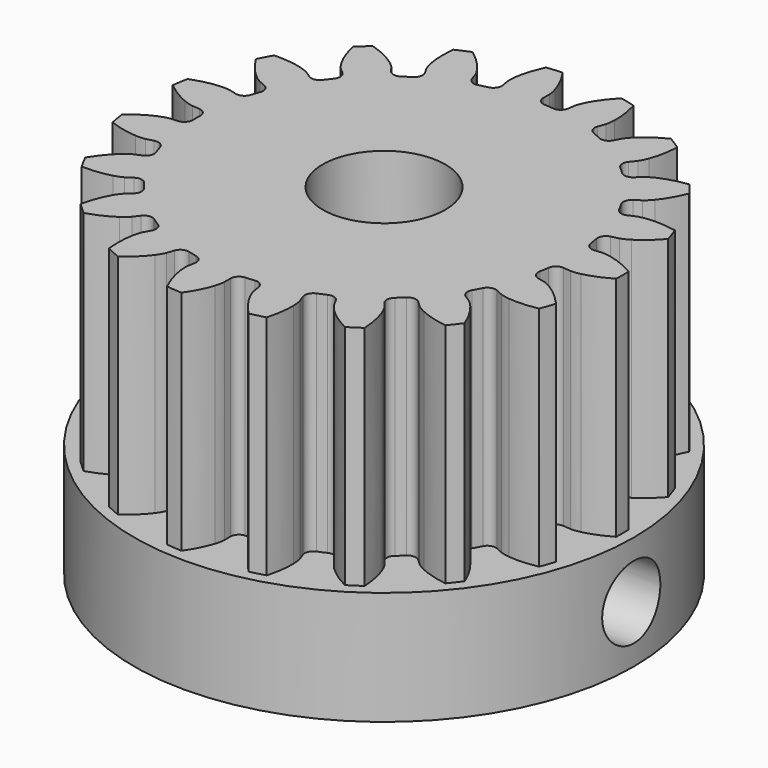
from build123d import *

# Parameters (mm, degrees)
PAD_DEPTH            = 10
SKETCH_R             = 11
PAD001_DEPTH         = 5
SKETCH001_R          = 2.7
POCKET_DEPTH         = 5.001
POCKET_DEPTH_BACK    = 10.001
SKETCH002_R          = 1.6
POCKET001_DEPTH      = 11.001
POCKET001_DEPTH_BACK = 11.001
POCKET002_DEPTH      = 2.2
POCKET003_DEPTH      = 2.2


with BuildPart() as part:
    # InvoluteGear → Pad (new body)
    with BuildSketch(Plane.XY):
        with BuildLine():
            Line((8.575854, -0.83948), (8.902263, -0.870675))
            add(Edge.make_bspline(
                [(8.902263, -0.870675), (8.948723, -0.872301), (9.088539, -0.871419), (9.321927, -0.820597)],
                knots=[0, 0, 0, 0, 1, 1, 1, 1], degree=3))
            add(Edge.make_bspline(
                [(9.321927, -0.820597), (9.601005, -0.758847), (10.002268, -0.626259), (10.495483, -0.343795)],
                knots=[0, 0, 0, 0, 1, 1, 1, 1], degree=3))
            ThreePointArc((10.495483, -0.343795), (10.501113, 0), (10.495483, 0.343795))
            add(Edge.make_bspline(
                [(10.495483, 0.343795), (10.002268, 0.626259), (9.601005, 0.758847), (9.321927, 0.820597)],
                knots=[0, 0, 0, 0, 1, 1, 1, 1], degree=3))
            add(Edge.make_bspline(
                [(9.321927, 0.820597), (9.088539, 0.871419), (8.948723, 0.872301), (8.902263, 0.870675)],
                knots=[0, 0, 0, 0, 1, 1, 1, 1], degree=3))
            Line((8.902263, 0.870675), (8.575854, 0.83948))
            ThreePointArc((8.575854, 0.83948), (8.30774, 0.917746), (8.168093, 1.159634))
            ThreePointArc((8.168093, 1.159634), (8.137481, 1.357905), (8.102056, 1.555373))
            ThreePointArc((8.102056, 1.555373), (8.155595, 1.829499), (8.383769, 1.990581))
            Line((8.383769, 1.990581), (8.702622, 2.067061))
            add(Edge.make_bspline(
                [(8.702622, 2.067061), (8.747092, 2.080609), (8.879046, 2.12684), (9.083287, 2.25069)],
                knots=[0, 0, 0, 0, 1, 1, 1, 1], degree=3))
            add(Edge.make_bspline(
                [(9.083287, 2.25069), (9.327193, 2.39971), (9.663664, 2.655405), (10.038439, 3.08271)],
                knots=[0, 0, 0, 0, 1, 1, 1, 1], degree=3))
            ThreePointArc((10.038439, 3.08271), (9.932134, 3.409706), (9.815179, 3.733045))
            add(Edge.make_bspline(
                [(9.815179, 3.733045), (9.256972, 3.840058), (8.834398, 3.835172), (8.550392, 3.80296)],
                knots=[0, 0, 0, 0, 1, 1, 1, 1], degree=3))
            add(Edge.make_bspline(
                [(8.550392, 3.80296), (8.313147, 3.775247), (8.180621, 3.730683), (8.137206, 3.71406)],
                knots=[0, 0, 0, 0, 1, 1, 1, 1], degree=3))
            Line((8.137206, 3.71406), (7.838612, 3.57857))
            ThreePointArc((7.838612, 3.57857), (7.559612, 3.565539), (7.348991, 3.748978))
            ThreePointArc((7.348991, 3.748978), (7.255658, 3.926566), (7.158035, 4.101832))
            ThreePointArc((7.158035, 4.101832), (7.119665, 4.378489), (7.283173, 4.604931))
            Line((7.283173, 4.604931), (7.559916, 4.780798))
            add(Edge.make_bspline(
                [(7.559916, 4.780798), (7.597578, 4.808052), (7.707371, 4.894624), (7.860332, 5.07808)],
                knots=[0, 0, 0, 0, 1, 1, 1, 1], degree=3))
            add(Edge.make_bspline(
                [(7.860332, 5.07808), (8.042635, 5.298222), (8.277851, 5.649314), (8.493574, 6.175156)],
                knots=[0, 0, 0, 0, 1, 1, 1, 1], degree=3))
            ThreePointArc((8.493574, 6.175156), (8.286854, 6.449917), (8.071248, 6.717762))
            add(Edge.make_bspline(
                [(8.071248, 6.717762), (7.508539, 6.637727), (7.110448, 6.495896), (6.852289, 6.373213)],
                knots=[0, 0, 0, 0, 1, 1, 1, 1], degree=3))
            add(Edge.make_bspline(
                [(6.852289, 6.373213), (6.636898, 6.269968), (6.526022, 6.184788), (6.490357, 6.154968)],
                knots=[0, 0, 0, 0, 1, 1, 1, 1], degree=3))
            Line((6.490357, 6.154968), (6.251935, 5.929866))
            ThreePointArc((6.251935, 5.929866), (5.992283, 5.82695), (5.733511, 5.932061))
            ThreePointArc((5.733511, 5.932061), (5.587573, 6.069722), (5.438331, 6.203794))
            ThreePointArc((5.438331, 6.203794), (5.312209, 6.453002), (5.393332, 6.720266))
            Line((5.393332, 6.720266), (5.597976, 6.976462))
            add(Edge.make_bspline(
                [(5.597976, 6.976462), (5.624749, 7.014468), (5.700483, 7.131999), (5.785588, 7.355181)],
                knots=[0, 0, 0, 0, 1, 1, 1, 1], degree=3))
            add(Edge.make_bspline(
                [(5.785588, 7.355181), (5.886533, 7.622589), (5.995005, 8.031033), (6.028299, 8.598429)],
                knots=[0, 0, 0, 0, 1, 1, 1, 1], degree=3))
            ThreePointArc((6.028299, 8.598429), (5.743564, 8.79118), (5.452671, 8.974505))
            add(Edge.make_bspline(
                [(5.452671, 8.974505), (4.946439, 8.716095), (4.61597, 8.452689), (4.411634, 8.252829)],
                knots=[0, 0, 0, 0, 1, 1, 1, 1], degree=3))
            add(Edge.make_bspline(
                [(4.411634, 8.252829), (4.241437, 8.085241), (4.164227, 7.968674), (4.140176, 7.92889)],
                knots=[0, 0, 0, 0, 1, 1, 1, 1], degree=3))
            Line((4.140176, 7.92889), (3.987763, 7.638569))
            ThreePointArc((3.987763, 7.638569), (3.775597, 7.456921), (3.496717, 7.472314))
            ThreePointArc((3.496717, 7.472314), (3.313987, 7.55513), (3.129298, 7.633478))
            ThreePointArc((3.129298, 7.633478), (2.929093, 7.828232), (2.91904, 8.107355))
            Line((2.91904, 8.107355), (3.029409, 8.416118))
            add(Edge.make_bspline(
                [(3.029409, 8.416118), (3.04239, 8.460758), (3.075858, 8.596511), (3.083885, 8.835234)],
                knots=[0, 0, 0, 0, 1, 1, 1, 1], degree=3))
            add(Edge.make_bspline(
                [(3.083885, 8.835234), (3.092534, 9.12093), (3.062507, 9.542464), (2.909764, 10.089927)],
                knots=[0, 0, 0, 0, 1, 1, 1, 1], degree=3))
            ThreePointArc((2.909764, 10.089927), (2.577871, 10.179782), (2.243214, 10.258721))
            add(Edge.make_bspline(
                [(2.243214, 10.258721), (1.848316, 9.849939), (1.62128, 9.493502), (1.49291, 9.238124)],
                knots=[0, 0, 0, 0, 1, 1, 1, 1], degree=3))
            add(Edge.make_bspline(
                [(1.49291, 9.238124), (1.38635, 9.024353), (1.351173, 8.889032), (1.341344, 8.843594)],
                knots=[0, 0, 0, 0, 1, 1, 1, 1], degree=3))
            Line((1.341344, 8.843594), (1.291456, 8.519515))
            ThreePointArc((1.291456, 8.519515), (1.149766, 8.278818), (0.880998, 8.202825))
            ThreePointArc((0.880998, 8.202825), (0.68128, 8.221822), (0.481158, 8.235957))
            ThreePointArc((0.481158, 8.235957), (0.228564, 8.355151), (0.128424, 8.615887))
            Line((0.128424, 8.615887), (0.132558, 8.943757))
            add(Edge.make_bspline(
                [(0.132558, 8.943757), (0.130342, 8.990193), (0.117917, 9.129458), (0.047996, 9.357853)],
                knots=[0, 0, 0, 0, 1, 1, 1, 1], degree=3))
            add(Edge.make_bspline(
                [(0.047996, 9.357853), (-0.036589, 9.630877), (-0.201861, 10.019822), (-0.524089, 10.488026)],
                knots=[0, 0, 0, 0, 1, 1, 1, 1], degree=3))
            ThreePointArc((-0.524089, 10.488026), (-0.867175, 10.465246), (-1.209331, 10.431245))
            add(Edge.make_bspline(
                [(-1.209331, 10.431245), (-1.450101, 9.91639), (-1.5491, 9.505547), (-1.587593, 9.222324)],
                knots=[0, 0, 0, 0, 1, 1, 1, 1], degree=3))
            add(Edge.make_bspline(
                [(-1.587593, 9.222324), (-1.618968, 8.985536), (-1.608301, 8.846125), (-1.602844, 8.799957)],
                knots=[0, 0, 0, 0, 1, 1, 1, 1], degree=3))
            Line((-1.602844, 8.799957), (-1.544801, 8.47724))
            ThreePointArc((-1.544801, 8.47724), (-1.600659, 8.203578), (-1.830189, 8.044433))
            ThreePointArc((-1.830189, 8.044433), (-2.025255, 7.997552), (-2.219123, 7.945942))
            ThreePointArc((-2.219123, 7.945942), (-2.496734, 7.976661), (-2.676108, 8.190754))
            Line((-2.676108, 8.190754), (-2.778657, 8.502201))
            add(Edge.make_bspline(
                [(-2.778657, 8.502201), (-2.795831, 8.545401), (-2.852802, 8.673087), (-2.993094, 8.866403)],
                knots=[0, 0, 0, 0, 1, 1, 1, 1], degree=3))
            add(Edge.make_bspline(
                [(-2.993094, 8.866403), (-3.161747, 9.097169), (-3.444354, 9.411376), (-3.901149, 9.749584)],
                knots=[0, 0, 0, 0, 1, 1, 1, 1], degree=3))
            ThreePointArc((-3.901149, 9.749584), (-4.218249, 9.616639), (-4.530826, 9.473383))
            add(Edge.make_bspline(
                [(-4.530826, 9.473383), (-4.591377, 8.908245), (-4.551612, 8.487518), (-4.496057, 8.207142)],
                knots=[0, 0, 0, 0, 1, 1, 1, 1], degree=3))
            add(Edge.make_bspline(
                [(-4.496057, 8.207142), (-4.448847, 7.972996), (-4.393491, 7.844603), (-4.373339, 7.802709)],
                knots=[0, 0, 0, 0, 1, 1, 1, 1], degree=3))
            Line((-4.373339, 7.802709), (-4.213654, 7.516323))
            ThreePointArc((-4.213654, 7.516323), (-4.177628, 7.239352), (-4.343048, 7.014302))
            ThreePointArc((-4.343048, 7.014302), (-4.512322, 6.906623), (-4.678928, 6.794861))
            ThreePointArc((-4.678928, 6.794861), (-4.951471, 6.733775), (-5.190643, 6.878025))
            Line((-5.190643, 6.878025), (-5.388762, 7.1393))
            add(Edge.make_bspline(
                [(-5.388762, 7.1393), (-5.419033, 7.174583), (-5.514376, 7.276852), (-5.709836, 7.41414)],
                knots=[0, 0, 0, 0, 1, 1, 1, 1], degree=3))
            add(Edge.make_bspline(
                [(-5.709836, 7.41414), (-5.944281, 7.577642), (-6.313598, 7.783062), (-6.855459, 7.954624)],
                knots=[0, 0, 0, 0, 1, 1, 1, 1], degree=3))
            ThreePointArc((-6.855459, 7.954624), (-7.11221, 7.72592), (-7.361336, 7.488932))
            add(Edge.make_bspline(
                [(-7.361336, 7.488932), (-7.235106, 6.934754), (-7.060886, 6.549735), (-6.917303, 6.302589)],
                knots=[0, 0, 0, 0, 1, 1, 1, 1], degree=3))
            add(Edge.make_bspline(
                [(-6.917303, 6.302589), (-6.796624, 6.096459), (-6.702578, 5.992996), (-6.669915, 5.959916)],
                knots=[0, 0, 0, 0, 1, 1, 1, 1], degree=3))
            Line((-6.669915, 5.959916), (-6.425893, 5.740897))
            ThreePointArc((-6.425893, 5.740897), (-6.301887, 5.49063), (-6.38527, 5.224063))
            ThreePointArc((-6.38527, 5.224063), (-6.510409, 5.067255), (-6.631699, 4.907451))
            ThreePointArc((-6.631699, 4.907451), (-6.86964, 4.761181), (-7.14269, 4.819956))
            Line((-7.14269, 4.819956), (-7.414911, 5.002745))
            add(Edge.make_bspline(
                [(-7.414911, 5.002745), (-7.454998, 5.026287), (-7.578382, 5.092057), (-7.807829, 5.158441)],
                knots=[0, 0, 0, 0, 1, 1, 1, 1], degree=3))
            add(Edge.make_bspline(
                [(-7.807829, 5.158441), (-8.08266, 5.23696), (-8.498666, 5.311332), (-9.066873, 5.297657)],
                knots=[0, 0, 0, 0, 1, 1, 1, 1], degree=3))
            ThreePointArc((-9.066873, 5.297657), (-9.235453, 4.997977), (-9.39413, 4.692939))
            add(Edge.make_bspline(
                [(-9.39413, 4.692939), (-9.094799, 4.209775), (-8.805003, 3.902187), (-8.588952, 3.715053)],
                knots=[0, 0, 0, 0, 1, 1, 1, 1], degree=3))
            add(Edge.make_bspline(
                [(-8.588952, 3.715053), (-8.407881, 3.559276), (-8.285337, 3.491956), (-8.243702, 3.471273)],
                knots=[0, 0, 0, 0, 1, 1, 1, 1], degree=3))
            Line((-8.243702, 3.471273), (-7.941787, 3.343355))
            ThreePointArc((-7.941787, 3.343355), (-7.743238, 3.146913), (-7.735549, 2.867715))
            ThreePointArc((-7.735549, 2.867715), (-7.802992, 2.678771), (-7.865822, 2.488242))
            ThreePointArc((-7.865822, 2.488242), (-8.043377, 2.272638), (-8.320717, 2.239569))
            Line((-8.320717, 2.239569), (-8.637539, 2.324065))
            add(Edge.make_bspline(
                [(-8.637539, 2.324065), (-8.683098, 2.333315), (-8.821152, 2.355459), (-9.059722, 2.343744)],
                knots=[0, 0, 0, 0, 1, 1, 1, 1], degree=3))
            add(Edge.make_bspline(
                [(-9.059722, 2.343744), (-9.345157, 2.328771), (-9.762772, 2.264037), (-10.295752, 2.066606)],
                knots=[0, 0, 0, 0, 1, 1, 1, 1], degree=3))
            ThreePointArc((-10.295752, 2.066606), (-10.357892, 1.728426), (-10.408925, 1.388393))
            add(Edge.make_bspline(
                [(-10.408925, 1.388393), (-9.968929, 1.028602), (-9.594962, 0.831776), (-9.329854, 0.724933)],
                knots=[0, 0, 0, 0, 1, 1, 1, 1], degree=3))
            add(Edge.make_bspline(
                [(-9.329854, 0.724933), (-9.108014, 0.63639), (-8.97025, 0.612508), (-8.924156, 0.606464)],
                knots=[0, 0, 0, 0, 1, 1, 1, 1], degree=3))
            Line((-8.924156, 0.606464), (-8.597064, 0.583509))
            ThreePointArc((-8.597064, 0.583509), (-8.345489, 0.46218), (-8.247561, 0.200605))
            ThreePointArc((-8.247561, 0.200605), (-8.25, 0), (-8.247561, -0.200605))
            ThreePointArc((-8.247561, -0.200605), (-8.345489, -0.46218), (-8.597064, -0.583509))
            Line((-8.597064, -0.583509), (-8.924156, -0.606464))
            add(Edge.make_bspline(
                [(-8.924156, -0.606464), (-8.97025, -0.612508), (-9.108014, -0.63639), (-9.329854, -0.724933)],
                knots=[0, 0, 0, 0, 1, 1, 1, 1], degree=3))
            add(Edge.make_bspline(
                [(-9.329854, -0.724933), (-9.594962, -0.831776), (-9.968929, -1.028602), (-10.408925, -1.388393)],
                knots=[0, 0, 0, 0, 1, 1, 1, 1], degree=3))
            ThreePointArc((-10.408925, -1.388393), (-10.357892, -1.728426), (-10.295752, -2.066606))
            add(Edge.make_bspline(
                [(-10.295752, -2.066606), (-9.762772, -2.264037), (-9.345157, -2.328771), (-9.059722, -2.343744)],
                knots=[0, 0, 0, 0, 1, 1, 1, 1], degree=3))
            add(Edge.make_bspline(
                [(-9.059722, -2.343744), (-8.821152, -2.355459), (-8.683098, -2.333315), (-8.637539, -2.324065)],
                knots=[0, 0, 0, 0, 1, 1, 1, 1], degree=3))
            Line((-8.637539, -2.324065), (-8.320717, -2.239569))
            ThreePointArc((-8.320717, -2.239569), (-8.043377, -2.272638), (-7.865822, -2.488242))
            ThreePointArc((-7.865822, -2.488242), (-7.802992, -2.678771), (-7.735549, -2.867715))
            ThreePointArc((-7.735549, -2.867715), (-7.743238, -3.146913), (-7.941787, -3.343355))
            Line((-7.941787, -3.343355), (-8.243702, -3.471273))
            add(Edge.make_bspline(
                [(-8.243702, -3.471273), (-8.285337, -3.491956), (-8.407881, -3.559276), (-8.588952, -3.715053)],
                knots=[0, 0, 0, 0, 1, 1, 1, 1], degree=3))
            add(Edge.make_bspline(
                [(-8.588952, -3.715053), (-8.805003, -3.902187), (-9.094799, -4.209775), (-9.39413, -4.692939)],
                knots=[0, 0, 0, 0, 1, 1, 1, 1], degree=3))
            ThreePointArc((-9.39413, -4.692939), (-9.235453, -4.997977), (-9.066873, -5.297657))
            add(Edge.make_bspline(
                [(-9.066873, -5.297657), (-8.498666, -5.311332), (-8.08266, -5.23696), (-7.807829, -5.158441)],
                knots=[0, 0, 0, 0, 1, 1, 1, 1], degree=3))
            add(Edge.make_bspline(
                [(-7.807829, -5.158441), (-7.578382, -5.092057), (-7.454998, -5.026287), (-7.414911, -5.002745)],
                knots=[0, 0, 0, 0, 1, 1, 1, 1], degree=3))
            Line((-7.414911, -5.002745), (-7.14269, -4.819956))
            ThreePointArc((-7.14269, -4.819956), (-6.86964, -4.761181), (-6.631699, -4.907451))
            ThreePointArc((-6.631699, -4.907451), (-6.510409, -5.067255), (-6.38527, -5.224063))
            ThreePointArc((-6.38527, -5.224063), (-6.301887, -5.49063), (-6.425893, -5.740897))
            Line((-6.425893, -5.740897), (-6.669915, -5.959916))
            add(Edge.make_bspline(
                [(-6.669915, -5.959916), (-6.702578, -5.992996), (-6.796624, -6.096459), (-6.917303, -6.302589)],
                knots=[0, 0, 0, 0, 1, 1, 1, 1], degree=3))
            add(Edge.make_bspline(
                [(-6.917303, -6.302589), (-7.060886, -6.549735), (-7.235106, -6.934754), (-7.361336, -7.488932)],
                knots=[0, 0, 0, 0, 1, 1, 1, 1], degree=3))
            ThreePointArc((-7.361336, -7.488932), (-7.11221, -7.72592), (-6.855459, -7.954624))
            add(Edge.make_bspline(
                [(-6.855459, -7.954624), (-6.313598, -7.783062), (-5.944281, -7.577642), (-5.709836, -7.41414)],
                knots=[0, 0, 0, 0, 1, 1, 1, 1], degree=3))
            add(Edge.make_bspline(
                [(-5.709836, -7.41414), (-5.514376, -7.276852), (-5.419033, -7.174583), (-5.388762, -7.1393)],
                knots=[0, 0, 0, 0, 1, 1, 1, 1], degree=3))
            Line((-5.388762, -7.1393), (-5.190643, -6.878025))
            ThreePointArc((-5.190643, -6.878025), (-4.951471, -6.733775), (-4.678928, -6.794861))
            ThreePointArc((-4.678928, -6.794861), (-4.512322, -6.906623), (-4.343048, -7.014302))
            ThreePointArc((-4.343048, -7.014302), (-4.177628, -7.239352), (-4.213654, -7.516323))
            Line((-4.213654, -7.516323), (-4.373339, -7.802709))
            add(Edge.make_bspline(
                [(-4.373339, -7.802709), (-4.393491, -7.844603), (-4.448847, -7.972996), (-4.496057, -8.207142)],
                knots=[0, 0, 0, 0, 1, 1, 1, 1], degree=3))
            add(Edge.make_bspline(
                [(-4.496057, -8.207142), (-4.551612, -8.487518), (-4.591377, -8.908245), (-4.530826, -9.473383)],
                knots=[0, 0, 0, 0, 1, 1, 1, 1], degree=3))
            ThreePointArc((-4.530826, -9.473383), (-4.218249, -9.616639), (-3.901149, -9.749584))
            add(Edge.make_bspline(
                [(-3.901149, -9.749584), (-3.444354, -9.411376), (-3.161747, -9.097169), (-2.993094, -8.866403)],
                knots=[0, 0, 0, 0, 1, 1, 1, 1], degree=3))
            add(Edge.make_bspline(
                [(-2.993094, -8.866403), (-2.852802, -8.673087), (-2.795831, -8.545401), (-2.778657, -8.502201)],
                knots=[0, 0, 0, 0, 1, 1, 1, 1], degree=3))
            Line((-2.778657, -8.502201), (-2.676108, -8.190754))
            ThreePointArc((-2.676108, -8.190754), (-2.496734, -7.976661), (-2.219123, -7.945942))
            ThreePointArc((-2.219123, -7.945942), (-2.025255, -7.997552), (-1.830189, -8.044433))
            ThreePointArc((-1.830189, -8.044433), (-1.600659, -8.203578), (-1.544801, -8.47724))
            Line((-1.544801, -8.47724), (-1.602844, -8.799957))
            add(Edge.make_bspline(
                [(-1.602844, -8.799957), (-1.608301, -8.846125), (-1.618968, -8.985536), (-1.587593, -9.222324)],
                knots=[0, 0, 0, 0, 1, 1, 1, 1], degree=3))
            add(Edge.make_bspline(
                [(-1.587593, -9.222324), (-1.5491, -9.505547), (-1.450101, -9.91639), (-1.209331, -10.431245)],
                knots=[0, 0, 0, 0, 1, 1, 1, 1], degree=3))
            ThreePointArc((-1.209331, -10.431245), (-0.867175, -10.465246), (-0.524089, -10.488026))
            add(Edge.make_bspline(
                [(-0.524089, -10.488026), (-0.201861, -10.019822), (-0.036589, -9.630877), (0.047996, -9.357853)],
                knots=[0, 0, 0, 0, 1, 1, 1, 1], degree=3))
            add(Edge.make_bspline(
                [(0.047996, -9.357853), (0.117917, -9.129458), (0.130342, -8.990193), (0.132558, -8.943757)],
                knots=[0, 0, 0, 0, 1, 1, 1, 1], degree=3))
            Line((0.132558, -8.943757), (0.128424, -8.615887))
            ThreePointArc((0.128424, -8.615887), (0.228564, -8.355151), (0.481158, -8.235957))
            ThreePointArc((0.481158, -8.235957), (0.68128, -8.221822), (0.880998, -8.202825))
            ThreePointArc((0.880998, -8.202825), (1.149766, -8.278818), (1.291456, -8.519515))
            Line((1.291456, -8.519515), (1.341344, -8.843594))
            add(Edge.make_bspline(
                [(1.341344, -8.843594), (1.351173, -8.889032), (1.38635, -9.024353), (1.49291, -9.238124)],
                knots=[0, 0, 0, 0, 1, 1, 1, 1], degree=3))
            add(Edge.make_bspline(
                [(1.49291, -9.238124), (1.62128, -9.493502), (1.848316, -9.849939), (2.243214, -10.258721)],
                knots=[0, 0, 0, 0, 1, 1, 1, 1], degree=3))
            ThreePointArc((2.243214, -10.258721), (2.577871, -10.179782), (2.909764, -10.089927))
            add(Edge.make_bspline(
                [(2.909764, -10.089927), (3.062507, -9.542464), (3.092534, -9.12093), (3.083885, -8.835234)],
                knots=[0, 0, 0, 0, 1, 1, 1, 1], degree=3))
            add(Edge.make_bspline(
                [(3.083885, -8.835234), (3.075858, -8.596511), (3.04239, -8.460758), (3.029409, -8.416118)],
                knots=[0, 0, 0, 0, 1, 1, 1, 1], degree=3))
            Line((3.029409, -8.416118), (2.91904, -8.107355))
            ThreePointArc((2.91904, -8.107355), (2.929093, -7.828232), (3.129298, -7.633478))
            ThreePointArc((3.129298, -7.633478), (3.313987, -7.55513), (3.496717, -7.472314))
            ThreePointArc((3.496717, -7.472314), (3.775597, -7.456921), (3.987763, -7.638569))
            Line((3.987763, -7.638569), (4.140176, -7.92889))
            add(Edge.make_bspline(
                [(4.140176, -7.92889), (4.164227, -7.968674), (4.241437, -8.085241), (4.411634, -8.252829)],
                knots=[0, 0, 0, 0, 1, 1, 1, 1], degree=3))
            add(Edge.make_bspline(
                [(4.411634, -8.252829), (4.61597, -8.452689), (4.946439, -8.716095), (5.452671, -8.974505)],
                knots=[0, 0, 0, 0, 1, 1, 1, 1], degree=3))
            ThreePointArc((5.452671, -8.974505), (5.743564, -8.79118), (6.028299, -8.598429))
            add(Edge.make_bspline(
                [(6.028299, -8.598429), (5.995005, -8.031033), (5.886533, -7.622589), (5.785588, -7.355181)],
                knots=[0, 0, 0, 0, 1, 1, 1, 1], degree=3))
            add(Edge.make_bspline(
                [(5.785588, -7.355181), (5.700483, -7.131999), (5.624749, -7.014468), (5.597976, -6.976462)],
                knots=[0, 0, 0, 0, 1, 1, 1, 1], degree=3))
            Line((5.597976, -6.976462), (5.393332, -6.720266))
            ThreePointArc((5.393332, -6.720266), (5.312209, -6.453002), (5.438331, -6.203794))
            ThreePointArc((5.438331, -6.203794), (5.587573, -6.069722), (5.733511, -5.932061))
            ThreePointArc((5.733511, -5.932061), (5.992283, -5.82695), (6.251935, -5.929866))
            Line((6.251935, -5.929866), (6.490357, -6.154968))
            add(Edge.make_bspline(
                [(6.490357, -6.154968), (6.526022, -6.184788), (6.636898, -6.269968), (6.852289, -6.373213)],
                knots=[0, 0, 0, 0, 1, 1, 1, 1], degree=3))
            add(Edge.make_bspline(
                [(6.852289, -6.373213), (7.110448, -6.495896), (7.508539, -6.637727), (8.071248, -6.717762)],
                knots=[0, 0, 0, 0, 1, 1, 1, 1], degree=3))
            ThreePointArc((8.071248, -6.717762), (8.286854, -6.449917), (8.493574, -6.175156))
            add(Edge.make_bspline(
                [(8.493574, -6.175156), (8.277851, -5.649314), (8.042635, -5.298222), (7.860332, -5.07808)],
                knots=[0, 0, 0, 0, 1, 1, 1, 1], degree=3))
            add(Edge.make_bspline(
                [(7.860332, -5.07808), (7.707371, -4.894624), (7.597578, -4.808052), (7.559916, -4.780798)],
                knots=[0, 0, 0, 0, 1, 1, 1, 1], degree=3))
            Line((7.559916, -4.780798), (7.283173, -4.604931))
            ThreePointArc((7.283173, -4.604931), (7.119665, -4.378489), (7.158035, -4.101832))
            ThreePointArc((7.158035, -4.101832), (7.255658, -3.926566), (7.348991, -3.748978))
            ThreePointArc((7.348991, -3.748978), (7.559612, -3.565539), (7.838612, -3.57857))
            Line((7.838612, -3.57857), (8.137206, -3.71406))
            add(Edge.make_bspline(
                [(8.137206, -3.71406), (8.180621, -3.730683), (8.313147, -3.775247), (8.550392, -3.80296)],
                knots=[0, 0, 0, 0, 1, 1, 1, 1], degree=3))
            add(Edge.make_bspline(
                [(8.550392, -3.80296), (8.834398, -3.835172), (9.256972, -3.840058), (9.815179, -3.733045)],
                knots=[0, 0, 0, 0, 1, 1, 1, 1], degree=3))
            ThreePointArc((9.815179, -3.733045), (9.932134, -3.409706), (10.038439, -3.08271))
            add(Edge.make_bspline(
                [(10.038439, -3.08271), (9.663664, -2.655405), (9.327193, -2.39971), (9.083287, -2.25069)],
                knots=[0, 0, 0, 0, 1, 1, 1, 1], degree=3))
            add(Edge.make_bspline(
                [(9.083287, -2.25069), (8.879046, -2.12684), (8.747092, -2.080609), (8.702622, -2.067061)],
                knots=[0, 0, 0, 0, 1, 1, 1, 1], degree=3))
            Line((8.702622, -2.067061), (8.383769, -1.990581))
            ThreePointArc((8.383769, -1.990581), (8.155595, -1.829499), (8.102056, -1.555373))
            ThreePointArc((8.102056, -1.555373), (8.137481, -1.357905), (8.168093, -1.159634))
            ThreePointArc((8.168093, -1.159634), (8.30774, -0.917746), (8.575854, -0.83948))
        make_face()
    extrude(amount=PAD_DEPTH)

    # Sketch → Pad001 (join)
    with BuildSketch(Plane.XY):
        Circle(SKETCH_R)
    extrude(amount=-PAD001_DEPTH)

    # Sketch001 → Pocket (cut, two sides)
    with BuildSketch(Plane.XY) as pocket_sk:
        Circle(SKETCH001_R)
    extrude(amount=-POCKET_DEPTH, mode=Mode.SUBTRACT)
    extrude(pocket_sk.sketch, amount=POCKET_DEPTH_BACK, mode=Mode.SUBTRACT)

    # Sketch002 → Pocket001 (cut, two sides)
    with BuildSketch(Plane.YZ) as pocket001_sk:
        with Locations((0, -2.5)):
            Circle(SKETCH002_R)
    extrude(amount=-POCKET001_DEPTH, mode=Mode.SUBTRACT)
    extrude(pocket001_sk.sketch, amount=POCKET001_DEPTH_BACK, mode=Mode.SUBTRACT)

    # Sketch003 (on DatumPlane) → Pocket002 (cut)
    with BuildSketch(Plane.YZ.offset(5)):
        Polygon((3, -4.232051), (3, -0.767949), (0, 0.964102), (-3, -0.767949), (-3, -4.232051), (-3, -14.232051), (3, -14.232051), align=None)
    extrude(amount=POCKET002_DEPTH, mode=Mode.SUBTRACT)

    # Sketch004 (on DatumPlane) → Pocket003 (cut)
    with BuildSketch(Plane.YZ.offset(-5)):
        Polygon((3, -4.232051), (3, -0.767949), (0, 0.964102), (-3, -0.767949), (-3, -4.232051), (-3, -14.232051), (3, -14.232051), align=None)
    extrude(amount=-POCKET003_DEPTH, mode=Mode.SUBTRACT)


solid = part.part
